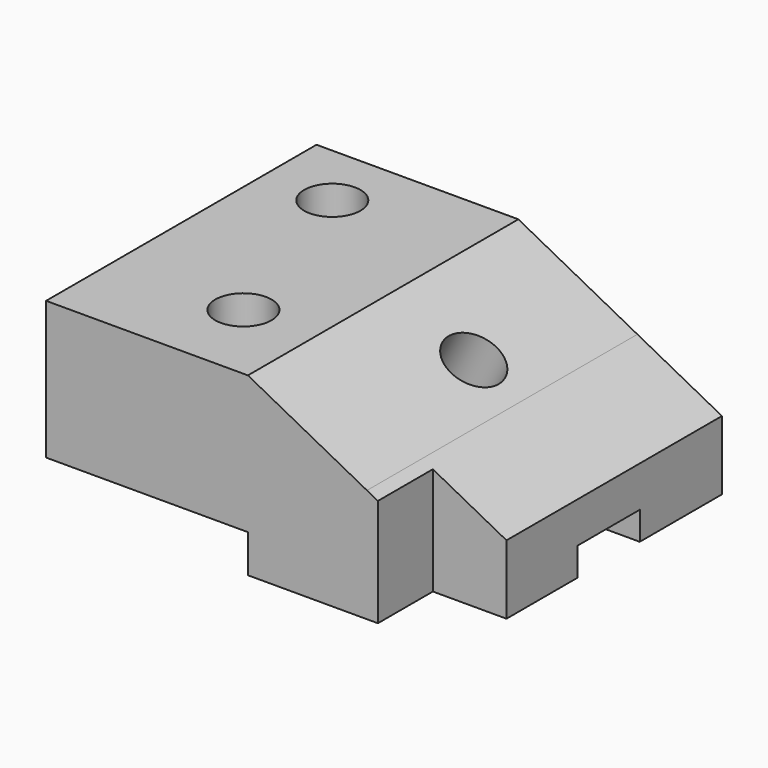
from build123d import *

# Parameters (mm, degrees)
F1_DEPTH = 76.2
F3_D     = 12.7
F5_DEPTH = 15.494
F6_W     = 17.5469946116
F6_H     = 6.365576759
F7_DEPTH = 76.2
F9_D     = 12.7


with BuildPart() as f1:
    # F0 (on Front) → F1 (new body)
    with BuildSketch(Plane.XZ):
        Polygon((-12.2837694362, 17.4164939672), (-57.7873364091, 17.4164939672), (-57.7873364091, -13.6970570311), (-12.2837694362, -13.6970570311), (-12.2837694362, -22.2532823682), (14.5516674966, -22.2532823682), (14.5516674966, 3.3165175266), align=None)
        Polygon((33.6087159812, -6.6965087317), (14.5516674966, 3.3165175266), (14.5516674966, -22.2532823682), (33.6087159812, -22.2532823682), align=None)
    extrude(amount=F1_DEPTH)

    # F3 (through all)
    with Locations(Plane.XY.offset(17.4164939672)):
        with Locations((-42.3829220235, -14.8011986166), (-28.5008102655, -57.2022236884)):
            Hole(F3_D / 2)

    # F4 (on face) → F5 (cut)
    with BuildSketch(Plane.XZ.offset(76.2)):
        Polygon((33.6087159812, -6.6965087317), (17.0117028464, 2.023956479), (17.0117028464, -22.2532823682), (33.6087159812, -22.2532823682), align=None)
    extrude(amount=-F5_DEPTH, mode=Mode.SUBTRACT)

    # F6 (on face) → F7 (cut)
    with BuildSketch(Plane.YZ.offset(33.6087159812)):
        with Locations((-31.9253103808, -19.0704939887)):
            Rectangle(F6_W, F6_H)
    extrude(amount=-F7_DEPTH, mode=Mode.SUBTRACT)

    # F9 (through all)
    with Locations(Plane(origin=(4.5137471869, 0, 8.5906794578), x_dir=(0.8852434605, 0, -0.4651279563), z_dir=(0.4651279563, 0, 0.8852434605))):
        with Locations((0, -33.5651822388)):
            Hole(F9_D / 2)


solid = f1.part
